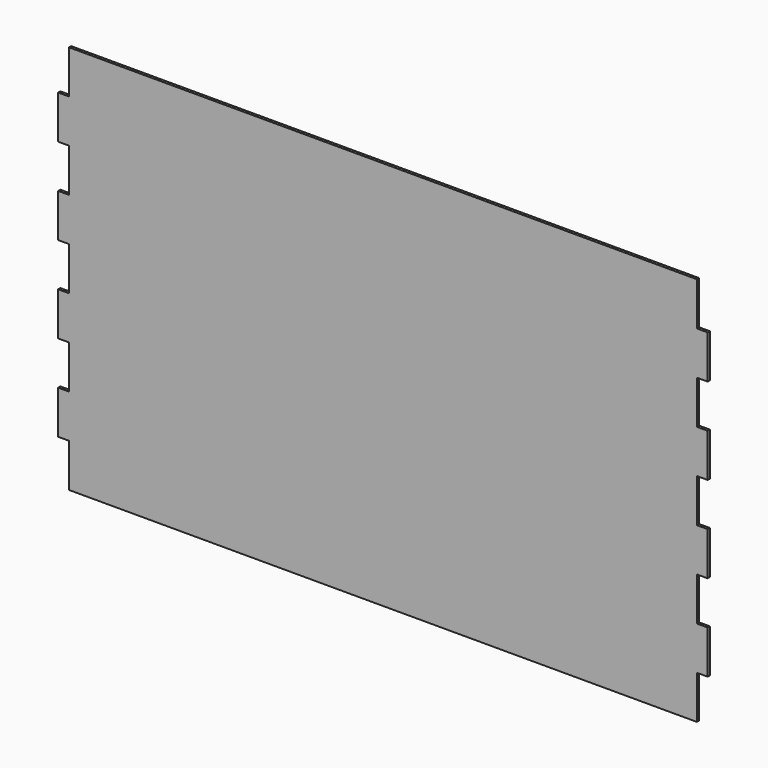
from build123d import *

# Parameters (mm, degrees)
F1_DEPTH = 6.35


with BuildPart() as f1:
    # F0 (on Front) → F1 (new body)
    with BuildSketch(Plane.XZ):
        Polygon((-736.6, -457.2), (0, -457.2), (736.6, -457.2), (736.6, -355.6), (762, -355.6), (762, -254), (736.6, -254), (736.6, -152.4), (762, -152.4), (762, -50.8), (736.6, -50.8), (736.6, 50.8), (762, 50.8), (762, 152.4), (736.6, 152.4), (736.6, 254), (762, 254), (762, 355.6), (736.6, 355.6), (736.6, 457.2), (0, 457.2), (-736.6, 457.2), (-736.6, 355.6), (-762, 355.6), (-762, 254), (-736.6, 254), (-736.6, 152.4), (-762, 152.4), (-762, 50.8), (-736.6, 50.8), (-736.6, -50.8), (-762, -50.8), (-762, -152.4), (-736.6, -152.4), (-736.6, -254), (-762, -254), (-762, -355.6), (-736.6, -355.6), align=None)
    extrude(amount=F1_DEPTH)


solid = f1.part
